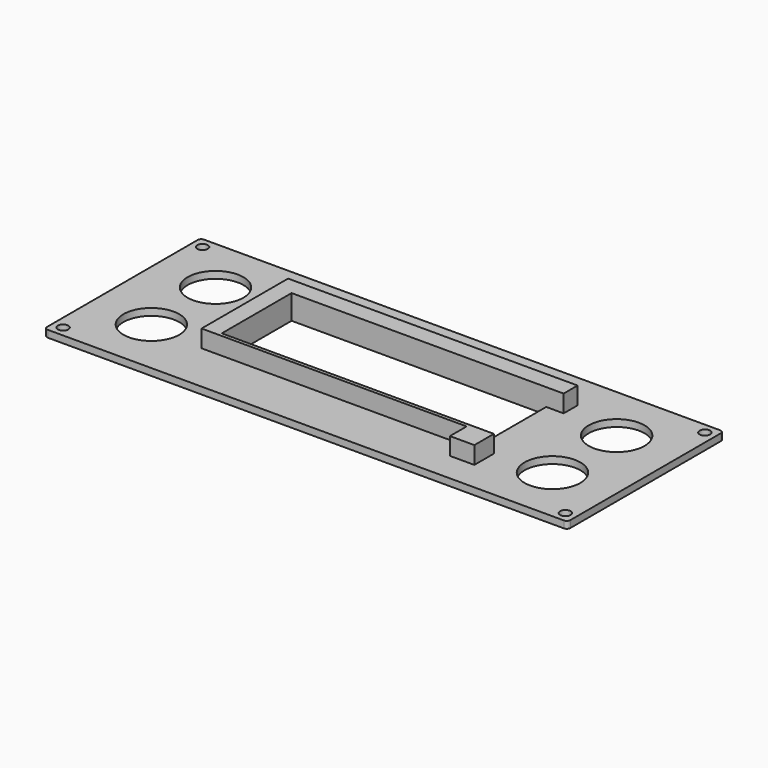
from build123d import *

# Parameters (mm, degrees)
SKETCH_W     = 150
SKETCH_H     = 56
SKETCH_R     = 8
SKETCH_W_2   = 73
SKETCH_H_2   = 25
PAD_DEPTH    = 2
PAD001_DEPTH = 5
SKETCH002_R  = 1.5
POCKET_DEPTH = 5
FILLET_R     = 1


with BuildPart() as part:
    # Sketch → Pad (new body)
    with BuildSketch(Plane.XY):
        with Locations((75, 28)):
            Rectangle(SKETCH_W, SKETCH_H)
        with Locations((17.5, 16.5)):
            Circle(SKETCH_R, mode=Mode.SUBTRACT)
        with Locations((17.5, 39.5)):
            Circle(SKETCH_R, mode=Mode.SUBTRACT)
        with Locations((132.5, 16.5)):
            Circle(SKETCH_R, mode=Mode.SUBTRACT)
        with Locations((132.5, 39.5)):
            Circle(SKETCH_R, mode=Mode.SUBTRACT)
        with Locations((75, 28)):
            Rectangle(SKETCH_W_2, SKETCH_H_2, mode=Mode.SUBTRACT)
    extrude(amount=PAD_DEPTH)

    # Sketch001 (on Face14 of Pad) → Pad001 (join)
    with BuildSketch(Plane.XY.offset(2)):
        Polygon((38.5, 15.5), (111.5, 15.5), (116.5, 15.5), (116.5, 8.5), (109.5, 8.5), (109.5, 14.5), (33.5, 14.5), (33.5, 45.5), (111.5, 45.5), (116.5, 45.5), (116.5, 40.5), (111.5, 40.5), (38.5, 40.5), align=None)
    extrude(amount=PAD001_DEPTH)

    # Sketch002 (on Face5 of Pad001) → Pocket (cut)
    with BuildSketch(Plane.XY.offset(2)):
        with Locations((3, 53)):
            Circle(SKETCH002_R)
        with Locations((147, 53)):
            Circle(SKETCH002_R)
        with Locations((3, 3)):
            Circle(SKETCH002_R)
        with Locations((147, 3)):
            Circle(SKETCH002_R)
    extrude(amount=-POCKET_DEPTH, mode=Mode.SUBTRACT)

    # Fillet
    fillet_edges = [part.edges().sort_by_distance(p)[0] for p in [
        (0, 0, 1),
        (150, 0, 1),
        (150, 56, 1),
        (0, 56, 1),
    ]]
    fillet(fillet_edges, radius=FILLET_R)


solid = part.part
